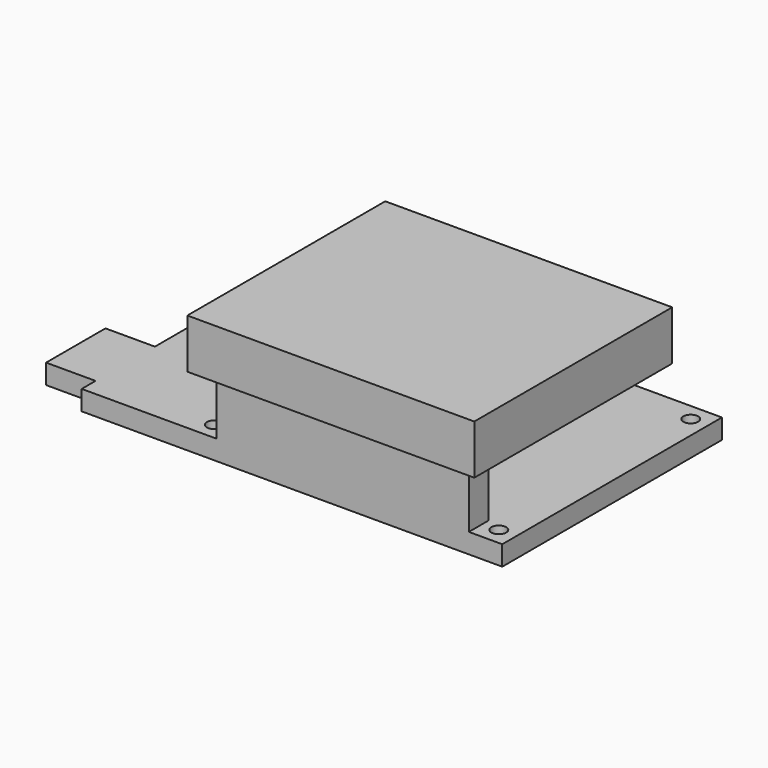
from build123d import *

# Parameters (mm, degrees)
F0_R     = 1.5
F0_W     = 10
F0_H     = 15
F1_DEPTH = 4
F2_W     = 51
F2_H     = 5
F3_DEPTH = 12
F4_W     = 58
F4_H     = 50
F5_DEPTH = 10


with BuildPart() as f1:
    # F0 (on Top) → F1 (new body)
    with BuildSketch(Plane.XY):
        Polygon((42.5, 27.75), (-42.5, 27.75), (-42.5, -9.25), (-42.5, -24.25), (-42.5, -27.75), (42.5, -27.75), align=None)
        with Locations((-18.5, -24.25)):
            Circle(F0_R, mode=Mode.SUBTRACT)
        with Locations((39, -24.25)):
            Circle(F0_R, mode=Mode.SUBTRACT)
        with Locations((-18.5, 24.25)):
            Circle(F0_R, mode=Mode.SUBTRACT)
        with Locations((39, 24.25)):
            Circle(F0_R, mode=Mode.SUBTRACT)
        with Locations((-47.5, -16.75)):
            Rectangle(F0_W, F0_H)
    extrude(amount=F1_DEPTH)

    # F2 (on face) → F3 (join)
    with BuildSketch(Plane.XY.offset(4)):
        with Locations((10.25, -25.25)):
            Rectangle(F2_W, F2_H)
    extrude(amount=F3_DEPTH)

    # F4 (on face) → F5 (join)
    with BuildSketch(Plane.XY.offset(16)):
        with Locations((10.25, -5.75)):
            Rectangle(F4_W, F4_H)
    extrude(amount=F5_DEPTH)


solid = f1.part
